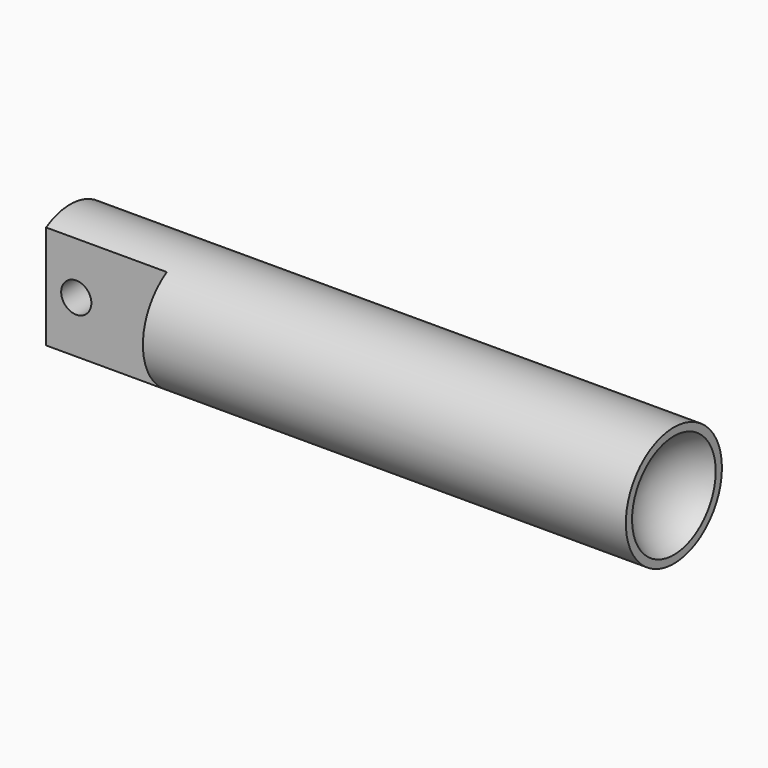
from build123d import *

# Parameters (mm, degrees)
F0_R     = 12.6365
F1_DEPTH = 127
F2_W     = 20.32
F2_H     = 40.64
F3_DEPTH = 25.4
F4_R     = 3.175
F5_DEPTH = 12.7


with BuildPart() as f1:
    # F0 (on Right) → F1 (new body)
    with BuildSketch(Plane.YZ):
        Circle(F0_R)
    extrude(amount=F1_DEPTH)

    # F2 (on face) → F3 (cut)
    with BuildSketch(Plane(origin=(0, 0, 0), x_dir=(0, -1, 0), z_dir=(-1, 0, 0))):
        with Locations((16.51, 0)):
            Rectangle(F2_W, F2_H)
        with Locations((-16.51, 0)):
            Rectangle(F2_W, F2_H)
    extrude(amount=-F3_DEPTH, mode=Mode.SUBTRACT)

    # F4 (on Front) → F5 (cut, symmetric)
    with BuildSketch(Plane.XZ):
        with Locations((6.35, 0)):
            Circle(F4_R)
    extrude(amount=F5_DEPTH, both=True, mode=Mode.SUBTRACT)

    # F6 (on Front) → F7 (revolve, cut)
    with BuildSketch(Plane.XZ):
        with BuildLine():
            Line((120.65, 0), (146.05, 0))
            ThreePointArc((146.05, 0), (133.35, 12.7), (120.65, 0))
        make_face()
    revolve(axis=Axis((133.35, 0, 0), (1, 0, 0)), mode=Mode.SUBTRACT)


solid = f1.part
